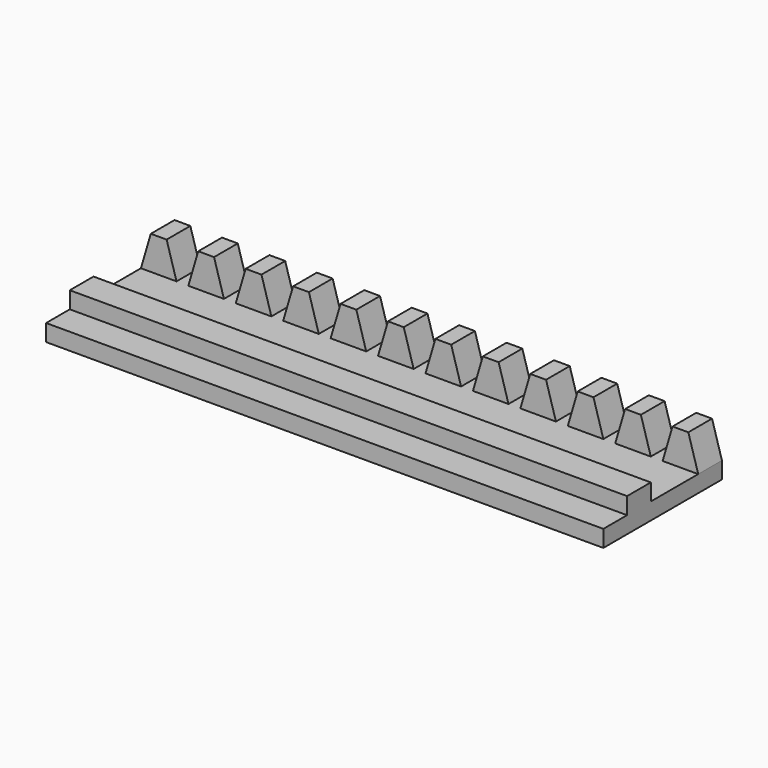
from build123d import *

# Parameters (mm, degrees)
F1_DEPTH = 3.81
F4_DEPTH = 71.628


with BuildPart() as f1:
    # F0 (on Front) → F1 (new body)
    with BuildSketch(Plane.XZ):
        Polygon((-38.4448663006, 16.8945933835), (-38.4448663006, 14.7355933835), (33.1831336994, 14.7355933835), (33.1831336994, 16.8945933835), (28.6111336994, 16.8945933835), (27.0871336994, 16.8945933835), (22.5151336994, 16.8945933835), (20.9911336994, 16.8945933835), (16.4191336994, 16.8945933835), (14.8951336994, 16.8945933835), (10.3231336994, 16.8945933835), (8.7991336994, 16.8945933835), (4.2271336994, 16.8945933835), (2.7031336994, 16.8945933835), (-1.8688663006, 16.8945933835), (-3.3928663006, 16.8945933835), (-7.9648663006, 16.8945933835), (-9.4888663006, 16.8945933835), (-14.0608663006, 16.8945933835), (-15.5848663006, 16.8945933835), (-20.1568663006, 16.8945933835), (-21.6808663006, 16.8945933835), (-26.2528663006, 16.8945933835), (-27.7768663006, 16.8945933835), (-32.3488663006, 16.8945933835), (-33.8728663006, 16.8945933835), align=None)
        Polygon((-37.1748663006, 21.2125933835), (-38.4448663006, 16.8945933835), (-33.8728663006, 16.8945933835), (-35.1428663006, 21.2125933835), align=None)
        Polygon((28.6111336994, 16.8945933835), (33.1831336994, 16.8945933835), (31.9131336994, 21.2125933835), (29.8811336994, 21.2125933835), align=None)
        Polygon((-31.0788663006, 21.2125933835), (-32.3488663006, 16.8945933835), (-27.7768663006, 16.8945933835), (-29.0468663006, 21.2125933835), align=None)
        Polygon((22.5151336994, 16.8945933835), (27.0871336994, 16.8945933835), (25.8171336994, 21.2125933835), (23.7851336994, 21.2125933835), align=None)
        Polygon((-24.9828663006, 21.2125933835), (-26.2528663006, 16.8945933835), (-21.6808663006, 16.8945933835), (-22.9508663006, 21.2125933835), align=None)
        Polygon((16.4191336994, 16.8945933835), (20.9911336994, 16.8945933835), (19.7211336994, 21.2125933835), (17.6891336994, 21.2125933835), align=None)
        Polygon((-18.8868663006, 21.2125933835), (-20.1568663006, 16.8945933835), (-15.5848663006, 16.8945933835), (-16.8548663006, 21.2125933835), align=None)
        Polygon((10.3231336994, 16.8945933835), (14.8951336994, 16.8945933835), (13.6251336994, 21.2125933835), (11.5931336994, 21.2125933835), align=None)
        Polygon((-12.7908663006, 21.2125933835), (-14.0608663006, 16.8945933835), (-9.4888663006, 16.8945933835), (-10.7588663006, 21.2125933835), align=None)
        Polygon((4.2271336994, 16.8945933835), (8.7991336994, 16.8945933835), (7.5291336994, 21.2125933835), (5.4971336994, 21.2125933835), align=None)
        Polygon((-6.6948663006, 21.2125933835), (-7.9648663006, 16.8945933835), (-3.3928663006, 16.8945933835), (-4.6628663006, 21.2125933835), align=None)
        Polygon((-1.8688663006, 16.8945933835), (2.7031336994, 16.8945933835), (1.4331336994, 21.2125933835), (-0.5988663006, 21.2125933835), align=None)
    extrude(amount=F1_DEPTH)

    # F3 (on plane+point) → F4 (join, through all)
    with BuildSketch(Plane.YZ.offset(33.1831336994)):
        Polygon((-19.05, 14.7355933835), (-3.81, 14.7355933835), (-3.81, 16.8945933835), (-11.43, 16.8945933835), (-11.43, 19.0535933835), (-15.24, 19.0535933835), (-15.24, 16.8945933835), (-19.05, 16.8945933835), align=None)
    extrude(amount=-F4_DEPTH)


solid = f1.part
